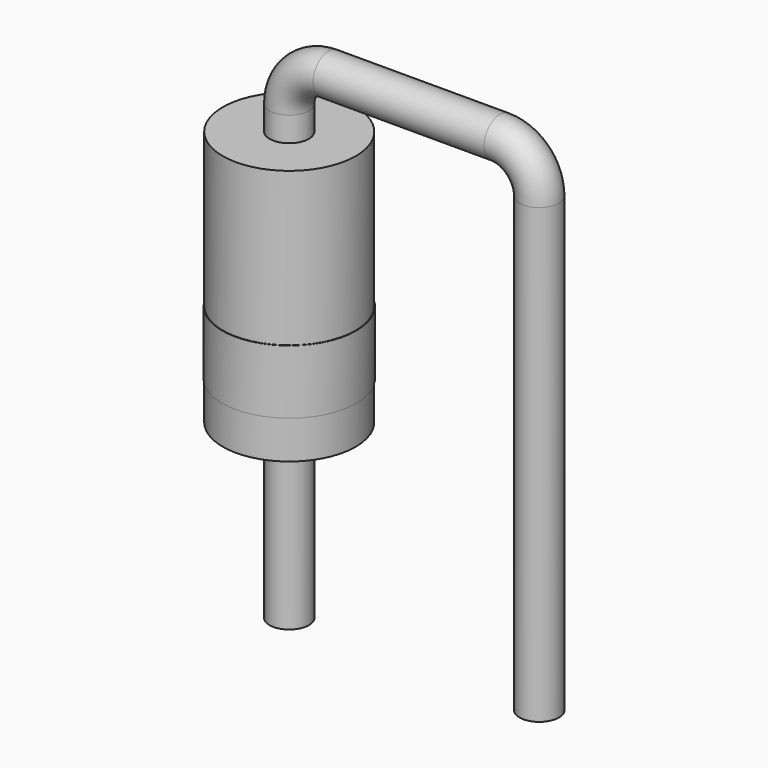
from build123d import *

# Parameters (mm, degrees)
SKETCH001_R = 0.4
SKETCH002_W = 1.35
SKETCH002_H = 5.2
SKETCH003_W = 1.36
SKETCH003_H = 1.3


with BuildPart() as sweep_body:
    # Sweep: sweep along a path in Sketch
    with BuildLine(Plane.XZ) as sweep_path:
        Line((0, -3), (0, 6.2))
        ThreePointArc((0, 6.2), (0.234315, 6.765685), (0.8, 7))
        Line((0.8, 7), (4.28, 7))
        ThreePointArc((4.28, 7), (4.845685, 6.765685), (5.08, 6.2))
        Line((5.08, 6.2), (5.08, -3))
    # Sketch001 → Sweep (sweep)
    with BuildSketch(Plane.XY):
        Circle(SKETCH001_R)
    sweep(path=sweep_path.line)


with BuildPart() as revolution:
    # Sketch002 → Revolution (revolve)
    with BuildSketch(Plane.XZ):
        with Locations((0.675, 3.1)):
            Rectangle(SKETCH002_W, SKETCH002_H)
    revolve(axis=Axis((0, 0, 0.5), (0, 0, 1)))


with BuildPart() as revolution001:
    # Sketch003 → Revolution001 (revolve)
    with BuildSketch(Plane.XZ):
        with Locations((0.68, 1.93)):
            Rectangle(SKETCH003_W, SKETCH003_H)
    revolve(axis=Axis((0, 0, 0), (0, 0, 1)))


solid = Compound([sweep_body.part, revolution.part, revolution001.part])
